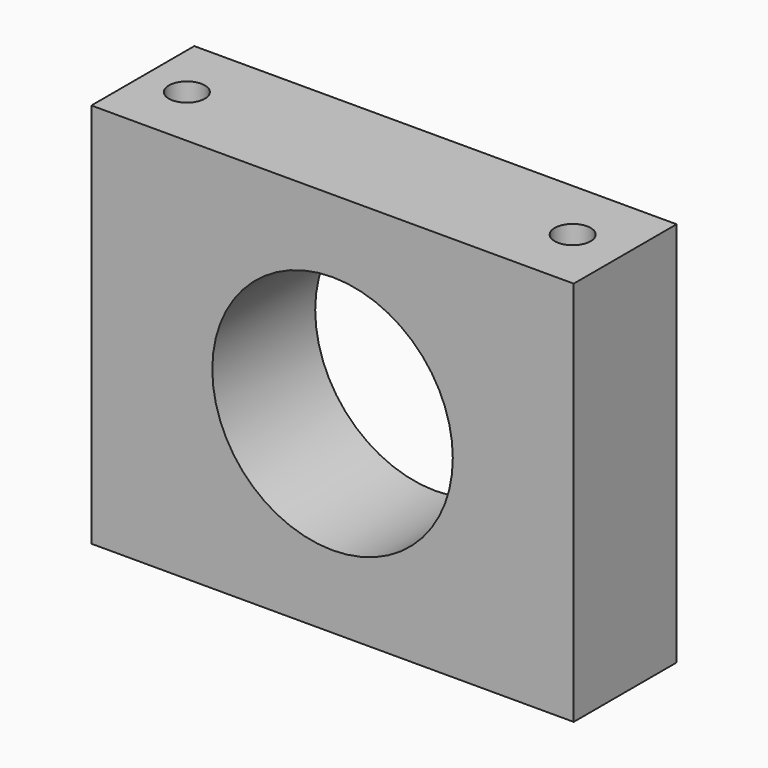
from build123d import *

# Parameters (mm, degrees)
F0_W     = 95.25
F0_H     = 76.2
F0_R     = 23.749
F2_DEPTH = 25.4
F3_R     = 3.556
F4_DEPTH = 76.201


with BuildPart() as f2:
    # F0 (on Front) → F2 (new body)
    with BuildSketch(Plane.XZ):
        Rectangle(F0_W, F0_H)
        Circle(F0_R, mode=Mode.SUBTRACT)
    extrude(amount=F2_DEPTH)

    # F3 (on face) → F4 (cut, through all)
    with BuildSketch(Plane.XY.offset(38.1)):
        with Locations((-38.933061, -12.7)):
            Circle(F3_R)
        with Locations((37.266939, -12.7)):
            Circle(F3_R)
    extrude(amount=-F4_DEPTH, mode=Mode.SUBTRACT)


solid = f2.part
